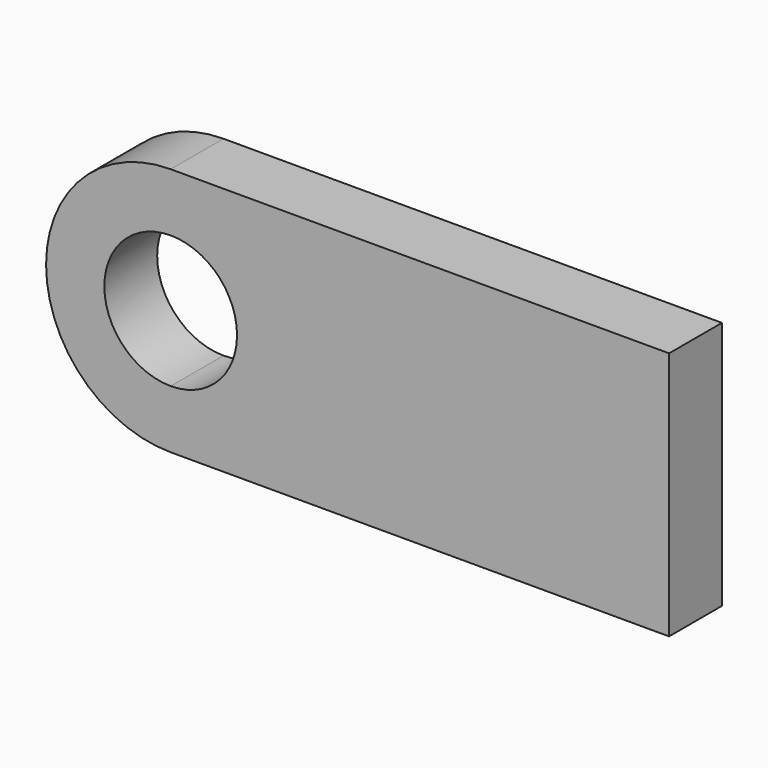
from build123d import *

# Parameters (mm, degrees)
F2_DEPTH = 13.462


with BuildPart() as f2:
    # F0 (on Front) → F2 (new body)
    with BuildSketch(Plane.XZ):
        with BuildLine():
            Line((-42.96492, -18.441067), (-42.96492, -30.318613))
            Line((-42.96492, -30.318613), (58.63508, -30.318613))
            Line((58.63508, -30.318613), (58.63508, 20.481387))
            Line((58.63508, 20.481387), (-42.96492, 20.481387))
            Line((-42.96492, 20.481387), (-42.96492, 8.603842))
            ThreePointArc((-42.96492, 8.603842), (-33.403101, 4.643207), (-29.442466, -4.918613))
            ThreePointArc((-29.442466, -4.918613), (-33.403101, -14.480432), (-42.96492, -18.441067))
        make_face()
        with BuildLine():
            ThreePointArc((-42.96492, 20.481387), (-68.36492, -4.918613), (-42.96492, -30.318613))
            Line((-42.96492, -30.318613), (-42.96492, -18.441067))
            ThreePointArc((-42.96492, -18.441067), (-56.487375, -4.918613), (-42.96492, 8.603842))
            Line((-42.96492, 8.603842), (-42.96492, 20.481387))
        make_face()
    extrude(amount=F2_DEPTH)


solid = f2.part
